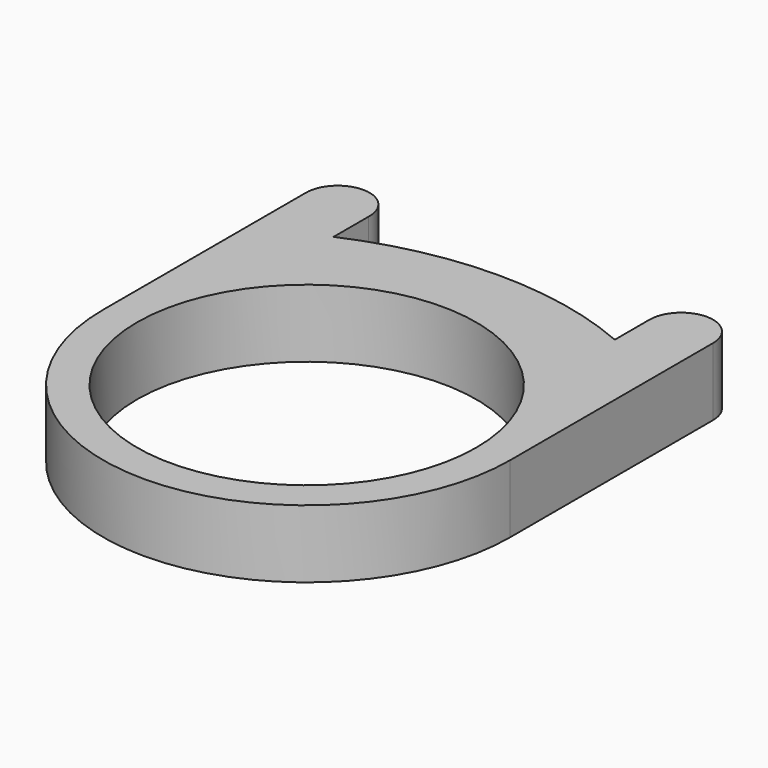
from build123d import *

# Parameters (mm, degrees)
F1_DEPTH = 3.175


with BuildPart() as f1:
    # F0 (on Top) → F1 (new body)
    with BuildSketch(Plane.XY):
        with BuildLine():
            ThreePointArc((9.525, 0), (0, 9.525), (-9.525, 0))
            ThreePointArc((-9.525, 0), (0, -9.525), (9.525, 0))
        make_face()
        with BuildLine():
            ThreePointArc((-7.9375, 0), (0, 7.9375), (7.9375, 0))
            ThreePointArc((7.9375, 0), (0, -7.9375), (-7.9375, 0))
        make_face(mode=Mode.SUBTRACT)
        with BuildLine():
            Line((-9.525, 11.865028), (-9.525, 0))
            ThreePointArc((-9.525, 0), (0, 9.525), (9.525, 0))
            Line((9.525, 0), (9.525, 11.8618))
            Line((9.525, 11.8618), (6.5532, 11.8618))
            Line((6.5532, 11.8618), (6.5532, 9.8298))
            ThreePointArc((6.5532, 9.8298), (-0.007139, 11.163698), (-6.553978, 9.765045))
            Line((-6.553978, 9.765045), (-6.553978, 11.797045))
            Line((-6.553978, 11.797045), (-9.525, 11.865028))
        make_face()
        with BuildLine():
            ThreePointArc((-6.553978, 11.797045), (-8.00471, 13.350928), (-9.525, 11.865028))
            Line((-9.525, 11.865028), (-6.553978, 11.797045))
        make_face()
        with BuildLine():
            Line((6.5532, 11.8618), (9.525, 11.8618))
            ThreePointArc((9.525, 11.8618), (8.0391, 13.3477), (6.5532, 11.8618))
        make_face()
    extrude(amount=F1_DEPTH)


solid = f1.part
